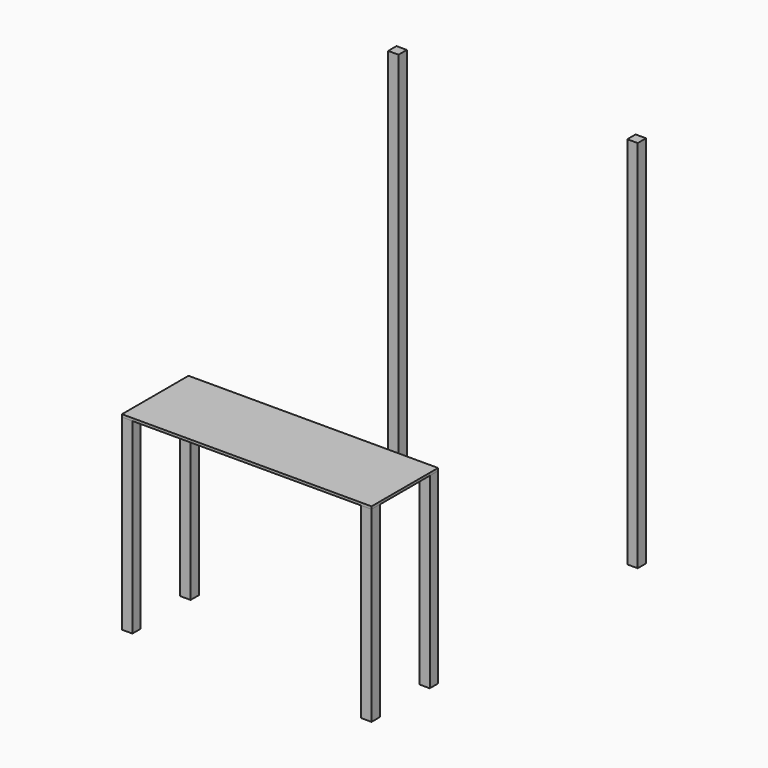
from build123d import *

# Parameters (mm, degrees)
F0_W     = 50.8
F0_H     = 50.8
F1_DEPTH = 914.4
F2_W     = 1219.2
F2_H     = 406.4
F3_DEPTH = 12.7
F4_DEPTH = 1828.8


with BuildPart() as f1:
    # F0 (on Top) → F1 (new body)
    with BuildSketch(Plane.XY):
        with Locations((-143.86965, 87.566311)):
            Rectangle(F0_W, F0_H)
        with Locations((1024.53035, 87.566311)):
            Rectangle(F0_W, F0_H)
        with Locations((-143.86965, -268.033689)):
            Rectangle(F0_W, F0_H)
        with Locations((1024.53035, -268.033689)):
            Rectangle(F0_W, F0_H)
    extrude(amount=F1_DEPTH)


with BuildPart() as f3:
    # F2 (on face) → F3 (new body)
    with BuildSketch(Plane.XY.offset(914.4)):
        with Locations((440.33035, -90.233689)):
            Rectangle(F2_W, F2_H)
    extrude(amount=F3_DEPTH)


with BuildPart() as f4:
    # F0 (on Top) → F4 (new body)
    with BuildSketch(Plane.XY):
        with Locations((-143.86965, 1357.566311)):
            Rectangle(F0_W, F0_H)
        with Locations((1024.53035, 1357.566311)):
            Rectangle(F0_W, F0_H)
    extrude(amount=F4_DEPTH)


solid = Compound([f1.part, f3.part, f4.part])
